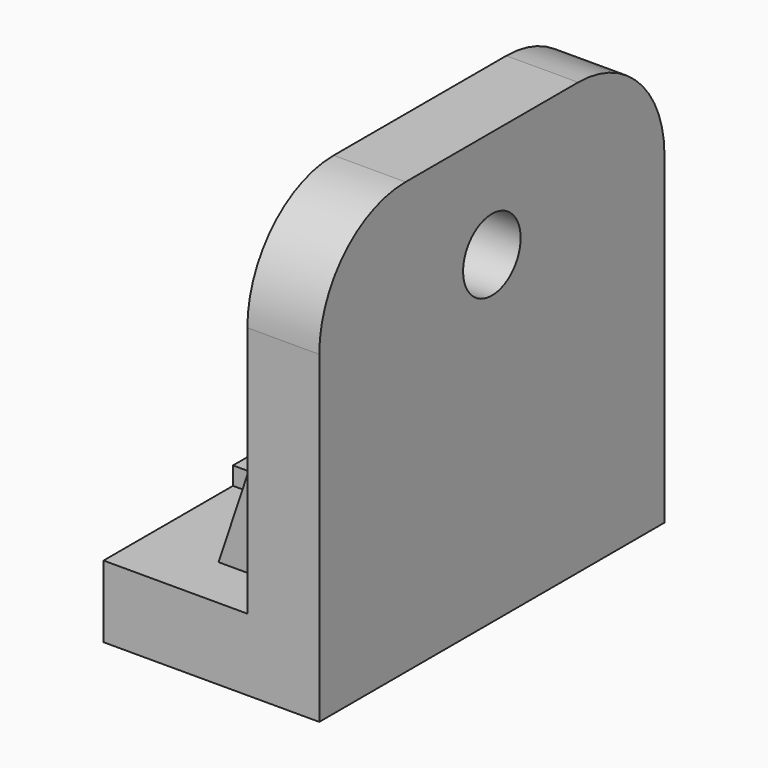
from build123d import *

# Parameters (mm, degrees)
F1_DEPTH  = 76.2
F2_R      = 12.7
F3_DEPTH  = 76.201
F5_DEPTH  = 152.401
F6_R      = 15.875
F7_DEPTH  = 6.35
F8_R      = 38.1
F12_DEPTH = 12.7
F14_SIZE  = 1.524
F15_W     = 6.35
F15_H     = 6.35


with BuildPart() as f1:
    # F0 (on Front) → F1 (new body, symmetric)
    with BuildSketch(Plane.XZ):
        Polygon((0, 0), (0, 152.4), (-25.4, 152.4), (-25.4, 25.4), (-76.2, 25.4), (-76.2, 0), align=None)
    extrude(amount=F1_DEPTH, both=True)

    # F2 (on face) → F3 (cut, through all)
    with BuildSketch(Plane.YZ):
        with Locations((0, 114.3)):
            Circle(F2_R)
    extrude(amount=-F3_DEPTH, mode=Mode.SUBTRACT)

    # F4 (on face) → F5 (cut, through all)
    with BuildSketch(Plane(origin=(0, 0, 0), x_dir=(1, 0, 0), z_dir=(0, 0, -1))):
        with BuildLine():
            Line((-63.5, 12.7), (-76.2, 12.7))
            Line((-76.2, 12.7), (-76.2, -12.7))
            Line((-76.2, -12.7), (-63.5, -12.7))
            ThreePointArc((-63.5, -12.7), (-50.8, 0), (-63.5, 12.7))
        make_face()
    extrude(amount=-F5_DEPTH, mode=Mode.SUBTRACT)

    # F6 (on face) → F7 (cut)
    with BuildSketch(Plane(origin=(-25.4, 0, 0), x_dir=(0, -1, 0), z_dir=(-1, 0, 0))):
        with Locations((0, 114.3)):
            Circle(F6_R)
    extrude(amount=-F7_DEPTH, mode=Mode.SUBTRACT)

    # F8
    f8_edges = [f1.edges().sort_by_distance(p)[0] for p in [
        (-12.7, -76.2, 152.4),
        (-12.7, 76.2, 152.4),
    ]]
    fillet(f8_edges, radius=F8_R)

    # F11 (on offset) → F12 (join)
    with BuildSketch(Plane.XZ.offset(44.45)):
        Polygon((-25.4, 25.4), (-25.4, 101.6), (-50.8, 25.4), align=None)
    extrude(amount=F12_DEPTH)

    # F13: F1 across plane


with BuildPart() as f1_1:
    add(f1.part)
    add(f1.part.mirror(Plane.XZ))

    # F14
    f14_edges = [f1_1.edges().sort_by_distance(p)[0] for p in [
        (-25.4, 15.875, 114.3),
        (-19.05, -12.7, 114.3),
    ]]
    chamfer(f14_edges, length=F14_SIZE)

    # F16: sweep along a path in F16_path
    with BuildLine(Plane(origin=(-63.5, 12.7, 25.4), x_dir=(0, 1, 0), z_dir=(0, 0, 1))) as f16_path:
        Line((0, 12.7), (0, 0))
        ThreePointArc((0, 0), (-12.7, -12.7), (-25.4, 0))
        Line((-25.4, 0), (-25.4, 12.7))
    # F15 (on face) → F16 (sweep)
    with BuildSketch(Plane(origin=(-76.2, 0, 0), x_dir=(0, -1, 0), z_dir=(-1, 0, 0))):
        with Locations((-15.875, 28.575)):
            Rectangle(F15_W, F15_H)
    sweep(path=f16_path.line)


solid = f1_1.part
